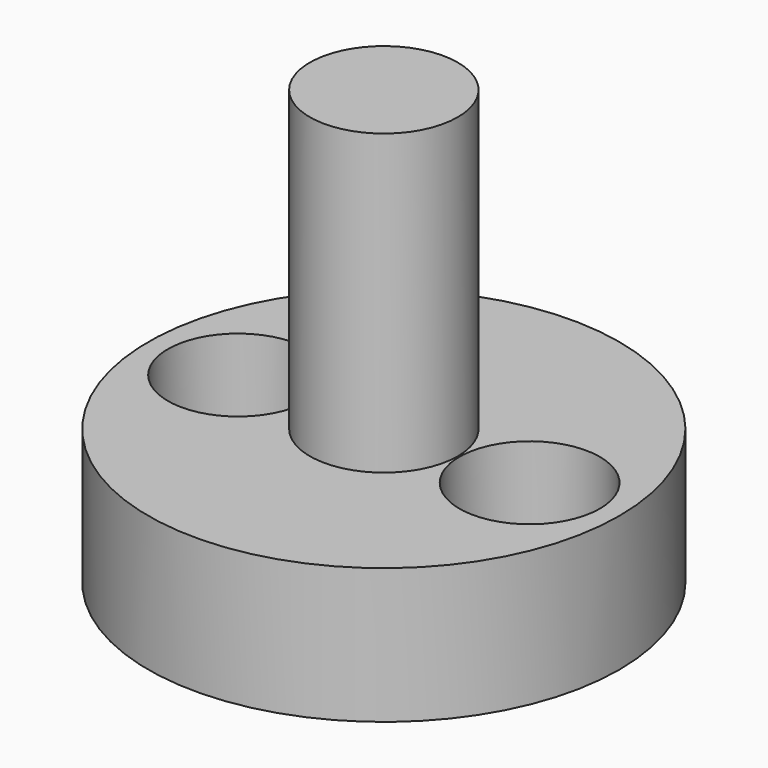
from build123d import *

# Parameters (mm, degrees)
F0_R     = 9.4996
F1_DEPTH = 5.461
F2_R     = 2.9845
F3_DEPTH = 12.0396
F4_R     = 2.8321
F5_DEPTH = 3.3782
F6_R     = 1.9939
F7_DEPTH = 4.445
F8_R     = 1.6002
F9_DEPTH = 25.4


with BuildPart() as f1:
    # F0 (on Top) → F1 (new body)
    with BuildSketch(Plane.XY):
        Circle(F0_R)
    extrude(amount=F1_DEPTH)

    # F2 (on face) → F3 (join)
    with BuildSketch(Plane.XY.offset(5.461)):
        Circle(F2_R)
    extrude(amount=F3_DEPTH)

    # F4 (on face) → F5 (cut)
    with BuildSketch(Plane.XY.offset(5.461)):
        with Locations((-5.8801, 0)):
            Circle(F4_R)
        with Locations((5.8801, 0)):
            Circle(F4_R)
    extrude(amount=-F5_DEPTH, mode=Mode.SUBTRACT)

    # F6 (on face) → F7 (cut)
    with BuildSketch(Plane(origin=(0, 0, 0), x_dir=(1, 0, 0), z_dir=(0, 0, -1))):
        Circle(F6_R)
    extrude(amount=-F7_DEPTH, mode=Mode.SUBTRACT)

    # F8 (on face) → F9 (cut)
    with BuildSketch(Plane(origin=(0, 0, 0), x_dir=(1, 0, 0), z_dir=(0, 0, -1))):
        with Locations((5.969, 0)):
            Circle(F8_R)
        with Locations((-5.969, 0)):
            Circle(F8_R)
    extrude(amount=-F9_DEPTH, mode=Mode.SUBTRACT)


solid = f1.part
